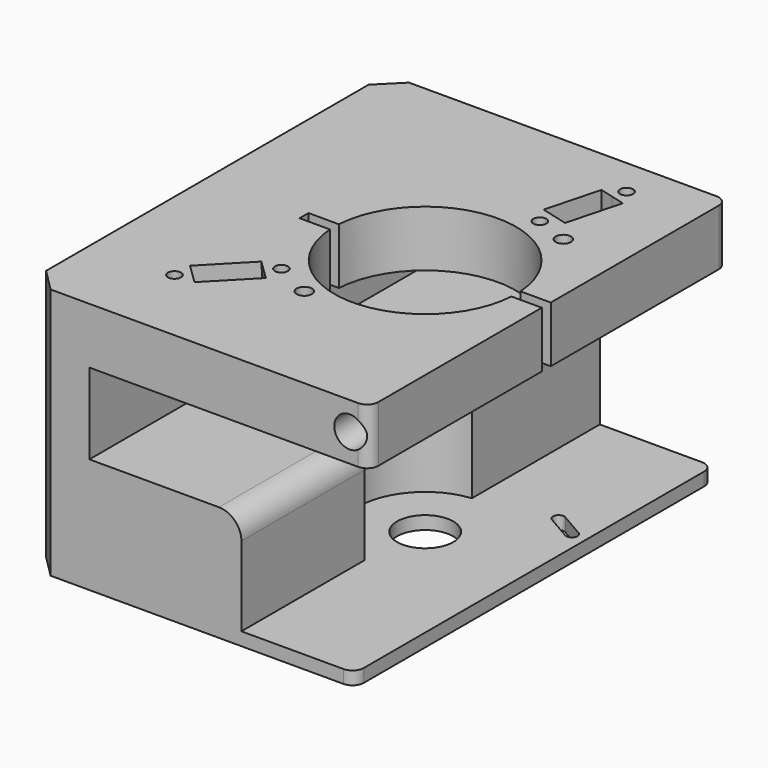
from build123d import *

# Parameters (mm, degrees)
F0_W      = 77.216
F0_H      = 57.023
F1_DEPTH  = 101.3714
F4_DEPTH  = 101.3724
F6_R      = 6.35
F7_DEPTH  = 57.024
F8_R      = 15.24
F9_DEPTH  = 23.0632
F10_R     = 20.574
F11_DEPTH = 12.7
F12_W     = 54.8132
F12_H     = 2.54
F13_DEPTH = 12.7
F14_SIZE  = 5.08
F15_R     = 5.08
F16_R     = 2.54
F18_DEPTH = 26.036
F19_R     = 1.4224
F20_DEPTH = 64.135
F19_R_2   = 1.905
F21_DEPTH = 45.466
F19_R_3   = 3.5052
F22_DEPTH = 39.116
F23_R     = 1.4732
F23_R_2   = 1.7272
F24_DEPTH = 12.7
F25_R     = 1.4732
F25_R_2   = 1.7272
F26_DEPTH = 12.7
F26_TAPER = -3


with BuildPart() as f1:
    # F0 (on Front) → F1 (new body)
    with BuildSketch(Plane.XZ):
        Rectangle(F0_W, F0_H)
    extrude(amount=F1_DEPTH)

    # F3 (on face) → F4 (cut, through all)
    with BuildSketch(Plane.XZ.offset(101.3714)):
        Polygon((35.306, -28.5115), (38.608, -28.5115), (38.608, 15.8115), (-24.7396, 15.8115), (-24.7396, -2.4765), (9.652, -2.4765), (9.652, -25.5397), (35.306, -25.5397), align=None)
    extrude(amount=-F4_DEPTH, mode=Mode.SUBTRACT)

    # F6 (on face) → F7 (cut, through all)
    with BuildSketch(Plane(origin=(0, 0, -28.5115), x_dir=(1, 0, 0), z_dir=(0, 0, -1))):
        with Locations((11.2014, 51.3334)):
            Circle(F6_R)
    extrude(amount=-F7_DEPTH, mode=Mode.SUBTRACT)

    # F8 (on face) → F9 (cut, through all)
    with BuildSketch(Plane.XY.offset(-2.4765)):
        with Locations((11.2014, -51.3334)):
            Circle(F8_R)
    extrude(amount=-F9_DEPTH, mode=Mode.SUBTRACT)

    # F10 (on face) → F11 (cut, through all)
    with BuildSketch(Plane.XY.offset(28.5115)):
        with Locations((11.2014, -51.3334)):
            Circle(F10_R)
    extrude(amount=-F11_DEPTH, mode=Mode.SUBTRACT)

    # F12 (on face) → F13 (cut, through all)
    with BuildSketch(Plane.XY.offset(28.5115)):
        with Locations((11.2014, -51.3334)):
            Rectangle(F12_W, F12_H)
    extrude(amount=-F13_DEPTH, mode=Mode.SUBTRACT)

    # F14
    f14_edges = [f1.edges().sort_by_distance(p)[0] for p in [
        (-38.608, 0, 0),
        (-38.608, -101.3714, 0),
    ]]
    chamfer(f14_edges, length=F14_SIZE)

    # F15
    f15_edges = [f1.edges().sort_by_distance(p)[0] for p in [
        (9.652, -83.932917, -2.4765),
        (9.652, -18.086183, -2.4765),
    ]]
    fillet(f15_edges, radius=F15_R)

    # F16
    f16_edges = [f1.edges().sort_by_distance(p)[0] for p in [
        (38.608, -101.3714, 22.1615),
        (38.608, 0, 22.1615),
        (35.306, -101.3714, -27.0256),
        (35.306, 0, -27.0256),
    ]]
    fillet(f16_edges, radius=F16_R)

    # F17 (on face) → F18 (cut, through all)
    with BuildSketch(Plane(origin=(0, 0, -28.5115), x_dir=(1, 0, 0), z_dir=(0, 0, -1))):
        with BuildLine():
            Line((27.0771505049, 31.5391477372), (32.6644, 34.7649477372))
            ThreePointArc((32.6644, 34.7649477372), (33.1292522628, 36.4998), (31.3944, 36.9646522628))
            Line((31.3944, 36.9646522628), (25.8071505049, 33.7388522628))
            ThreePointArc((25.8071505049, 33.7388522628), (25.3422982421, 32.004), (27.0771505049, 31.5391477372))
        make_face()
        with BuildLine():
            Line((-8.9146494951, 65.5751477372), (-3.3274, 68.8009477372))
            ThreePointArc((-3.3274, 68.8009477372), (-2.8625477372, 70.5358), (-4.5974, 71.0006522628))
            Line((-4.5974, 71.0006522628), (-10.1846494951, 67.7748522628))
            ThreePointArc((-10.1846494951, 67.7748522628), (-10.6495017579, 66.04), (-8.9146494951, 65.5751477372))
        make_face()
    extrude(amount=-F18_DEPTH, mode=Mode.SUBTRACT)

    # F19 (on face) → F20 (cut)
    with BuildSketch(Plane.XZ.offset(101.3714)):
        with Locations((34.163, 22.1615)):
            Circle(F19_R)
    extrude(amount=-F20_DEPTH, mode=Mode.SUBTRACT)

    # F19 (on face) → F21 (cut)
    with BuildSketch(Plane.XZ.offset(101.3714)):
        with Locations((34.163, 22.1615)):
            Circle(F19_R_2)
        with Locations((34.163, 22.1615)):
            Circle(F19_R, mode=Mode.SUBTRACT)
    extrude(amount=-F21_DEPTH, mode=Mode.SUBTRACT)

    # F19 (on face) → F22 (cut)
    with BuildSketch(Plane.XZ.offset(101.3714)):
        with Locations((34.163, 22.1615)):
            Circle(F19_R_3)
        with Locations((34.163, 22.1615)):
            Circle(F19_R_2, mode=Mode.SUBTRACT)
    extrude(amount=-F22_DEPTH, mode=Mode.SUBTRACT)

    # F23 (on face) → F24 (cut, through all)
    with BuildSketch(Plane.XY.offset(28.5115)):
        with Locations((22.5552, -8.5598)):
            Circle(F23_R)
        with Locations((17.6678259177, -26.97218916)):
            Circle(F23_R)
        Polygon((24.8093691796, -12.4430938737), (21.740637653, -11.6285315267), (18.6719061263, -10.8139691796), (15.4136567381, -23.0888952863), (18.4823882648, -23.9034576334), (21.5511197915, -24.7180199804), align=None)
        with Locations((25.2238661051, -29.762910679)):
            Circle(F23_R_2)
    extrude(amount=-F24_DEPTH, mode=Mode.SUBTRACT)

    # F25 (on face) → F26 (cut, through all)
    with BuildSketch(Plane.XY.offset(28.5115)):
        with Locations((-6.6294, -69.6976)):
            Circle(F25_R)
        with Locations((-19.8998323352, -83.3650110803)):
            Circle(F25_R)
        Polygon((-6.5632368758, -74.1872405692), (-8.8411387225, -71.9755018467), (-11.1190405692, -69.7637631242), (-19.9659954594, -78.875370511), (-17.6880936127, -81.0871092336), (-15.410191766, -83.2988479561), align=None)
        with Locations((1.9183511613, -73.9168599248)):
            Circle(F25_R_2)
    extrude(amount=-F26_DEPTH, taper=F26_TAPER, mode=Mode.SUBTRACT)


solid = f1.part
